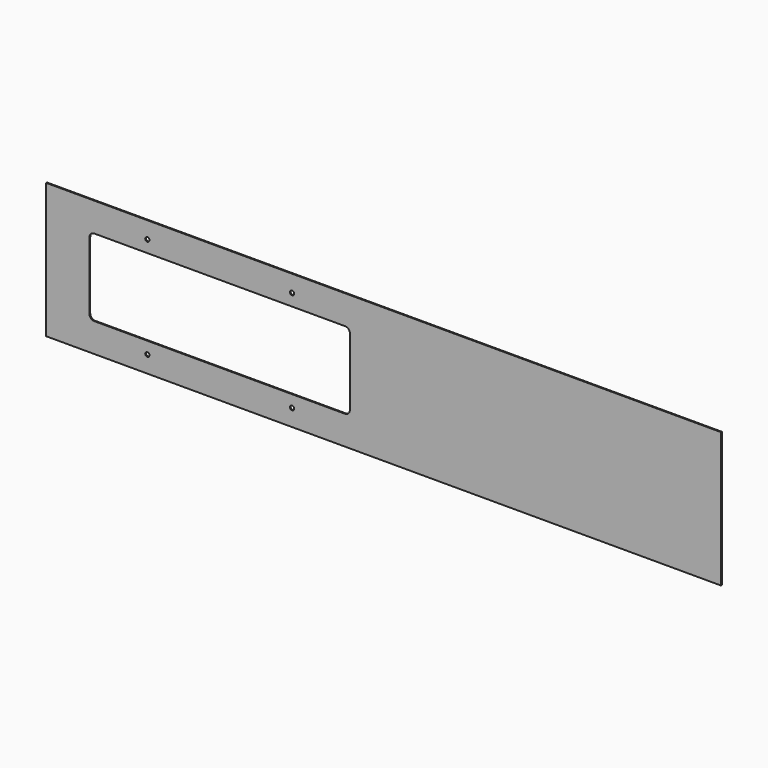
from build123d import *

# Parameters (mm, degrees)
F0_W     = 889
F0_H     = 177.8
F0_R     = 2.7813
F1_DEPTH = 1.27


with BuildPart() as f1:
    # F0 (on Front) → F1 (new body)
    with BuildSketch(Plane.XZ):
        Rectangle(F0_W, F0_H)
        with Locations((-311.15, -66.675)):
            Circle(F0_R, mode=Mode.SUBTRACT)
        with Locations((-120.65, -66.675)):
            Circle(F0_R, mode=Mode.SUBTRACT)
        with BuildLine():
            Line((-381, 50.8), (-50.8, 50.8))
            ThreePointArc((-50.8, 50.8), (-46.309872, 48.940128), (-44.45, 44.45))
            Line((-44.45, 44.45), (-44.45, -44.45))
            ThreePointArc((-44.45, -44.45), (-46.309872, -48.940128), (-50.8, -50.8))
            Line((-50.8, -50.8), (-381, -50.8))
            ThreePointArc((-381, -50.8), (-385.490128, -48.940128), (-387.35, -44.45))
            Line((-387.35, -44.45), (-387.35, 44.45))
            ThreePointArc((-387.35, 44.45), (-385.490128, 48.940128), (-381, 50.8))
        make_face(mode=Mode.SUBTRACT)
        with Locations((-311.15, 66.675)):
            Circle(F0_R, mode=Mode.SUBTRACT)
        with Locations((-120.65, 66.675)):
            Circle(F0_R, mode=Mode.SUBTRACT)
    extrude(amount=F1_DEPTH)


solid = f1.part
